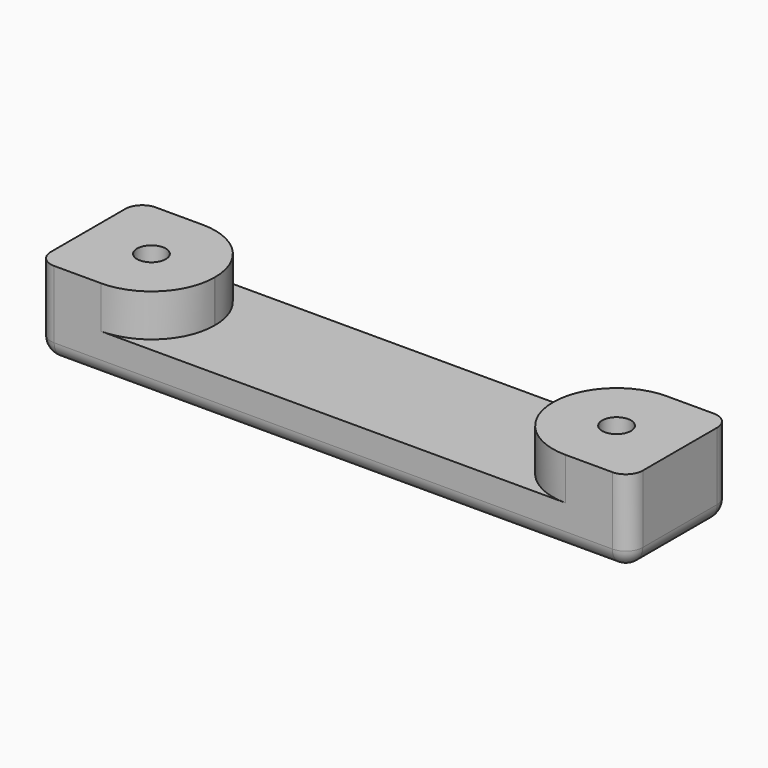
from build123d import *

# Parameters (mm, degrees)
BOX001_W          = 40
BOX001_H          = 15
BOX001_DEPTH      = 5
CYLINDER003_R     = 3
CYLINDER003_DEPTH = 6
CYLINDER002_R     = 3
CYLINDER002_DEPTH = 6
CYLINDER001_R     = 1.7
CYLINDER001_DEPTH = 10
CYLINDER_R        = 1.7
CYLINDER_DEPTH    = 10
BOX_W             = 70
BOX_H             = 15
BOX_DEPTH         = 10
FILLET_R          = 2
FILLET001_R       = 2
FILLET002_R       = 7.45


with BuildPart() as cube001:
    # Box001 → Box001 (new body)
    with BuildSketch(Plane(origin=(15, 0, 5), x_dir=(1, 0, 0), z_dir=(0, 0, 1))):
        with Locations((20, 7.5)):
            Rectangle(BOX001_W, BOX001_H)
    extrude(amount=BOX001_DEPTH)


with BuildPart() as sphere001:
    # Sphere001 → Sphere001 (revolve)
    with BuildSketch(Plane(origin=(62.5, 7.5, -2), x_dir=(1, 0, 0), z_dir=(0, -1, 0))):
        with BuildLine():
            ThreePointArc((0, -5), (5, 0), (0, 5))
            Line((0, 5), (0, -5))
        make_face()
    revolve(axis=Axis((62.5, 7.5, -2), (0, 0, 1)))


with BuildPart() as sphere:
    # Sphere → Sphere (revolve)
    with BuildSketch(Plane(origin=(7.5, 7.5, -2), x_dir=(1, 0, 0), z_dir=(0, -1, 0))):
        with BuildLine():
            ThreePointArc((0, -5), (5, 0), (0, 5))
            Line((0, 5), (0, -5))
        make_face()
    revolve(axis=Axis((7.5, 7.5, -2), (0, 0, 1)))


with BuildPart() as cylinder003:
    # Cylinder003 → Cylinder003 (new body)
    with BuildSketch(Plane(origin=(62.5, 7.5, 0), x_dir=(1, 0, 0), z_dir=(0, 0, 1))):
        Circle(CYLINDER003_R)
    extrude(amount=CYLINDER003_DEPTH)


with BuildPart() as cylinder002:
    # Cylinder002 → Cylinder002 (new body)
    with BuildSketch(Plane(origin=(7.5, 7.5, 0), x_dir=(1, 0, 0), z_dir=(0, 0, 1))):
        Circle(CYLINDER002_R)
    extrude(amount=CYLINDER002_DEPTH)


with BuildPart() as cylinder001:
    # Cylinder001 → Cylinder001 (new body)
    with BuildSketch(Plane(origin=(62.5, 7.5, 0), x_dir=(1, 0, 0), z_dir=(0, 0, 1))):
        Circle(CYLINDER001_R)
    extrude(amount=CYLINDER001_DEPTH)


with BuildPart() as cylinder:
    # Cylinder → Cylinder (new body)
    with BuildSketch(Plane(origin=(7.5, 7.5, 0), x_dir=(1, 0, 0), z_dir=(0, 0, 1))):
        Circle(CYLINDER_R)
    extrude(amount=CYLINDER_DEPTH)


with BuildPart() as obj1:
    # Box → Box (new body)
    with BuildSketch(Plane.XY):
        with Locations((35, 7.5)):
            Rectangle(BOX_W, BOX_H)
    extrude(amount=BOX_DEPTH)

    # Fillet
    fillet_edges = [obj1.edges().sort_by_distance(p)[0] for p in [
        (0, 0, 5),
        (0, 15, 5),
        (70, 0, 5),
        (70, 15, 5),
    ]]
    fillet(fillet_edges, radius=FILLET_R)

    # Fillet001
    fillet001_edges = [obj1.edges().sort_by_distance(p)[0] for p in [
        (0, 7.5, 0),
        (0.585786, 0.585786, 0),
        (0.585786, 14.414214, 0),
        (35, 0, 0),
        (35, 15, 0),
        (69.414214, 0.585786, 0),
        (69.414214, 14.414214, 0),
        (70, 7.5, 0),
    ]]
    fillet(fillet001_edges, radius=FILLET001_R)

    # Cut: cut Cylinder
    add(cylinder.part, mode=Mode.SUBTRACT)

    # Cut001: cut Cylinder001
    add(cylinder001.part, mode=Mode.SUBTRACT)

    # Cut002: cut Cylinder002
    add(cylinder002.part, mode=Mode.SUBTRACT)

    # Cut003: cut Cylinder003
    add(cylinder003.part, mode=Mode.SUBTRACT)

    # Cut004: cut Sphere
    add(sphere.part, mode=Mode.SUBTRACT)

    # Cut005: cut Sphere001
    add(sphere001.part, mode=Mode.SUBTRACT)

    # Cut006: cut Cube001
    add(cube001.part, mode=Mode.SUBTRACT)

    # Fillet002
    fillet002_edges = [obj1.edges().sort_by_distance(p)[0] for p in [
        (55, 0, 7.5),
        (15, 0, 7.5),
        (55, 15, 7.5),
        (15, 15, 7.5),
    ]]
    fillet(fillet002_edges, radius=FILLET002_R)


solid = obj1.part
